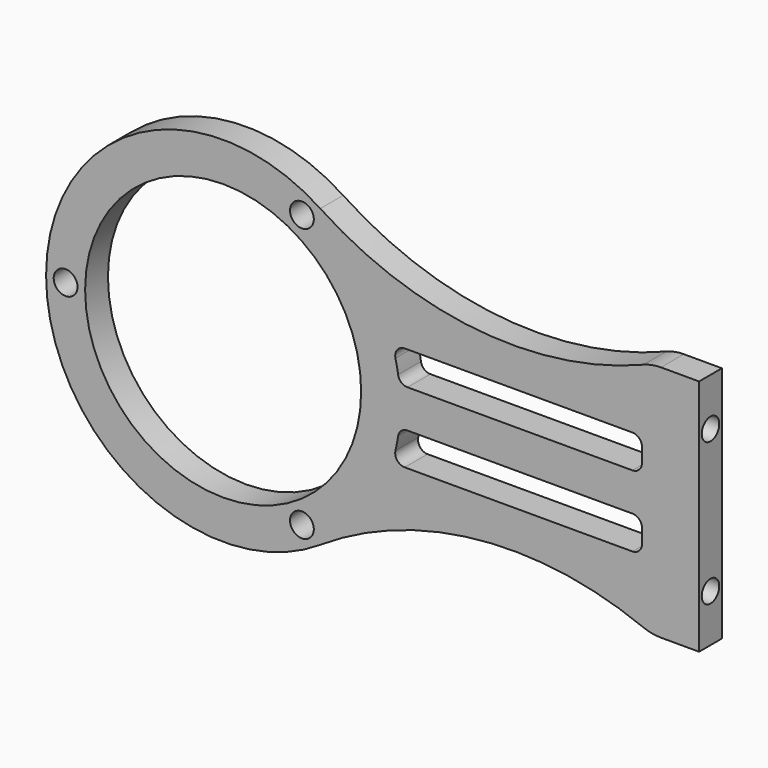
from build123d import *

# Parameters (mm, degrees)
F0_R     = 14.5
F1_DEPTH = 3
F2_D     = 2.5
F3_R     = 1
F4_R     = 5
F6_D     = 2.3
F6_DEPTH = 4
F6_TIP   = 0.6909897119


with BuildPart() as f1:
    # F0 (on Front) → F1 (new body)
    with BuildSketch(Plane.XZ):
        with BuildLine():
            ThreePointArc((18.4921605011, -2), (18.5730205583, -1.0014526146), (18.6, 0))
            ThreePointArc((18.6, 0), (18.5730205583, 1.0014526146), (18.4921605011, 2))
            ThreePointArc((18.4921605011, 2), (18.2144580261, 3.7674286742), (17.7682300751, 5.5))
            ThreePointArc((17.7682300751, 5.5), (14.8636221286, 11.1818038445), (10.2095594024, 15.5475045203))
            ThreePointArc((10.2095594024, 15.5475045203), (-18.6, 0), (10.2095594024, -15.5475045203))
            ThreePointArc((10.2095594024, -15.5475045203), (14.8636221286, -11.1818038445), (17.7682300751, -5.5))
            ThreePointArc((17.7682300751, -5.5), (18.2144580261, -3.7674286742), (18.4921605011, -2))
        make_face()
        Circle(F0_R, mode=Mode.SUBTRACT)
        with BuildLine():
            ThreePointArc((18.4921605011, 2), (18.5730205583, 1.0014526146), (18.6, 0))
            ThreePointArc((18.6, 0), (18.5730205583, -1.0014526146), (18.4921605011, -2))
            Line((18.4921605011, -2), (44, -2))
            Line((44, -2), (44, -5.5))
            Line((44, -5.5), (17.7682300751, -5.5))
            ThreePointArc((17.7682300751, -5.5), (14.8636221286, -11.1818038445), (10.2095594024, -15.5475045203))
            ThreePointArc((10.2095594024, -15.5475045203), (27.2208300421, -9.6405667001), (45, -12.5))
            Line((45, -12.5), (50, -12.5))
            Line((50, -12.5), (50, 12.5))
            Line((50, 12.5), (45, 12.5))
            ThreePointArc((45, 12.5), (27.2208300421, 9.6405667001), (10.2095594024, 15.5475045203))
            ThreePointArc((10.2095594024, 15.5475045203), (14.8636221286, 11.1818038445), (17.7682300751, 5.5))
            Line((17.7682300751, 5.5), (44, 5.5))
            Line((44, 5.5), (44, 2))
            Line((44, 2), (18.4921605011, 2))
        make_face()
    extrude(amount=F1_DEPTH)

    # F2 (through all)
    with Locations(Plane(origin=(0, 0, 0), x_dir=(1, 0, 0), z_dir=(0, 1, 0))):
        with Locations((-16.55, 0), (8.275, 14.3327204326), (8.275, -14.3327204326)):
            Hole(F2_D / 2)

    # F3
    f3_edges = [f1.edges().sort_by_distance(p)[0] for p in [
        (17.76823, -1.5, 5.5),
        (18.492161, -1.5, -2),
        (18.492161, -1.5, 2),
        (17.76823, -1.5, -5.5),
        (44, -1.5, -2),
        (44, -1.5, 5.5),
        (44, -1.5, 2),
        (44, -1.5, -5.5),
    ]]
    fillet(f3_edges, radius=F3_R)

    # F4
    f4_edges = [f1.edges().sort_by_distance(p)[0] for p in [
        (45, -1.5, 12.5),
        (45, -1.5, -12.5),
    ]]
    fillet(f4_edges, radius=F4_R)

    # F6
    with Locations(Plane.YZ.offset(50)):
        with Locations((-1.5, 7.5), (-1.5, -7.5)):
            Hole(F6_D / 2, depth=F6_DEPTH)
            with Locations((0, 0, -(F6_DEPTH + F6_TIP / 2))):  # 118° drill point
                Cone(0, F6_D / 2, F6_TIP, mode=Mode.SUBTRACT)


solid = f1.part
